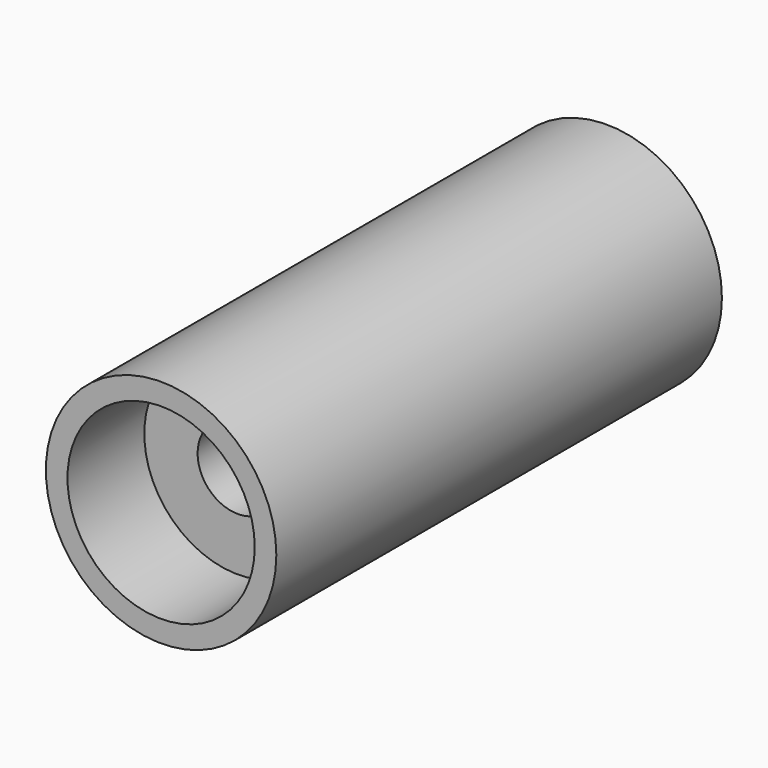
from build123d import *

# Parameters (mm, degrees)
F0_R           = 6
F1_DEPTH       = 29
F3_D           = 4.2
F3_DEPTH       = 14.4
F3_CBORE_D     = 9.75
F3_CBORE_DEPTH = 5
F3_TIP         = 1.2618073


with BuildPart() as f1:
    # F0 (on Front) → F1 (new body)
    with BuildSketch(Plane.XZ):
        Circle(F0_R)
    extrude(amount=F1_DEPTH)

    # F3
    with Locations(Plane.XZ.offset(29)):
        with Locations((0, 0)):
            CounterBoreHole(F3_D / 2, F3_CBORE_D / 2, F3_CBORE_DEPTH, depth=F3_DEPTH)
            with Locations((0, 0, -(F3_DEPTH + F3_TIP / 2))):  # 118° drill point
                Cone(0, F3_D / 2, F3_TIP, mode=Mode.SUBTRACT)


solid = f1.part
